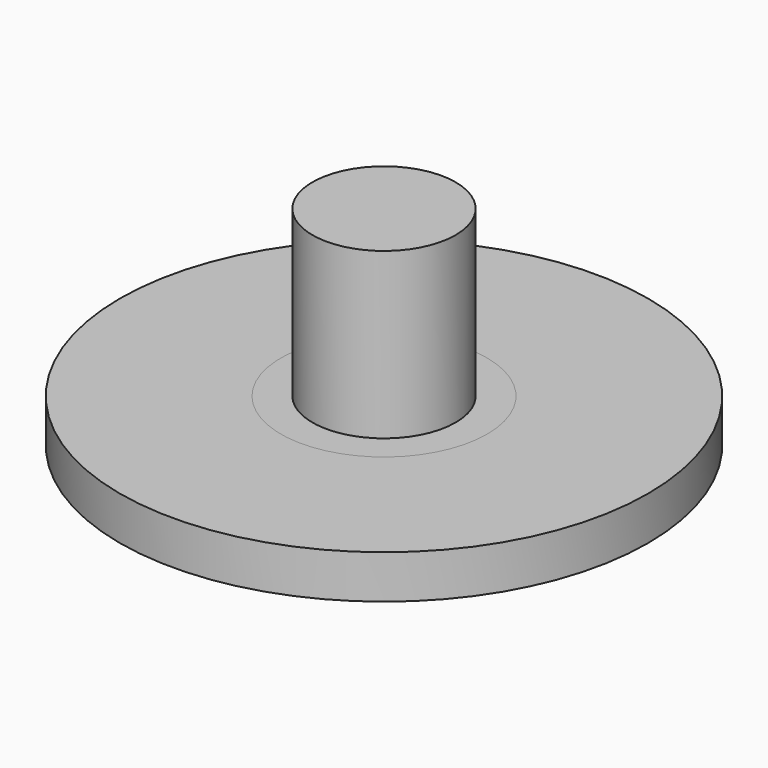
from build123d import *

# Parameters (mm, degrees)
F0_R     = 6.25
F1_DEPTH = 16.2
F0_R_2   = 23.05
F0_R_3   = 9
F2_DEPTH = 3.8
F3_DEPTH = 1.5
F4_DEPTH = 3.8
F5_R     = 6.25
F6_DEPTH = 2


with BuildPart() as f1:
    # F0 (on Top) → F1 (new body)
    with BuildSketch(Plane.XY):
        Circle(F0_R)
        with BuildLine():
            ThreePointArc((2.622066, -2.393171), (0.025069, -3.549911), (-2.588006, -2.429964))
            Line((-2.588006, -2.429964), (-2.588006, 2.429964))
            ThreePointArc((-2.588006, 2.429964), (0.025069, 3.549911), (2.622066, 2.393171))
            Line((2.622066, 2.393171), (2.622066, -2.393171))
        make_face(mode=Mode.SUBTRACT)
    extrude(amount=F1_DEPTH)

    # F5 (on face) → F6 (join)
    with BuildSketch(Plane.XY.offset(16.2)):
        Circle(F5_R)
        with BuildLine():
            ThreePointArc((-2.588006, 2.429964), (0.025069, 3.549911), (2.622066, 2.393171))
            Line((2.622066, 2.393171), (2.622066, -2.393171))
            ThreePointArc((2.622066, -2.393171), (0.025069, -3.549911), (-2.588006, -2.429964))
            Line((-2.588006, -2.429964), (-2.588006, 2.429964))
        make_face(mode=Mode.SUBTRACT)
        with BuildLine():
            Line((2.622066, -2.393171), (2.622066, 2.393171))
            ThreePointArc((2.622066, 2.393171), (0.025069, 3.549911), (-2.588006, 2.429964))
            Line((-2.588006, 2.429964), (-2.588006, -2.429964))
            ThreePointArc((-2.588006, -2.429964), (0.025069, -3.549911), (2.622066, -2.393171))
        make_face()
    extrude(amount=F6_DEPTH)


with BuildPart() as f2:
    # F0 (on Top) → F2 (new body)
    with BuildSketch(Plane.XY):
        Circle(F0_R_2)
        Circle(F0_R_3, mode=Mode.SUBTRACT)
    extrude(amount=F2_DEPTH)


with BuildPart() as f3:
    # F0 (on Top) → F3 (new body)
    with BuildSketch(Plane.XY):
        Circle(F0_R_3)
        Circle(F0_R, mode=Mode.SUBTRACT)
    extrude(amount=-F3_DEPTH)


with BuildPart() as f4:
    # F0 (on Top) → F4 (new body)
    with BuildSketch(Plane.XY):
        Circle(F0_R_3)
        Circle(F0_R, mode=Mode.SUBTRACT)
    extrude(amount=F4_DEPTH)


solid = Compound([f1.part, f2.part, f3.part, f4.part])
